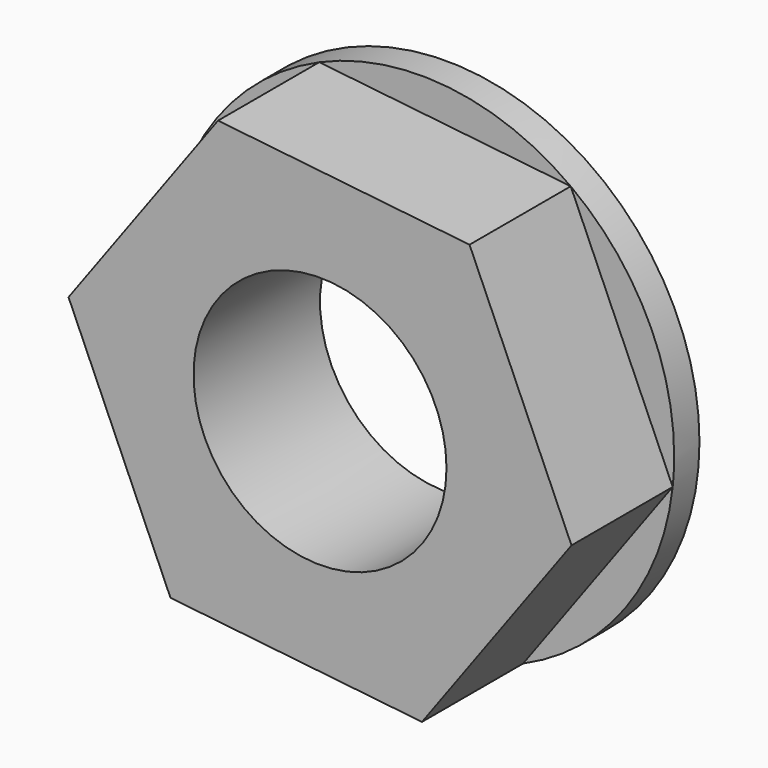
from build123d import *

# Parameters (mm, degrees)
F0_R     = 25.4
F0_R_2   = 12.7
F1_DEPTH = 3.175
F2_R     = 12.7
F3_DEPTH = 12.7


with BuildPart() as f1:
    # F0 (on Front) → F1 (new body)
    with BuildSketch(Plane.XZ):
        with Locations((-49.276002, 2.029355)):
            Circle(F0_R)
        with Locations((-49.276002, 2.029355)):
            Circle(F0_R_2, mode=Mode.SUBTRACT)
    extrude(amount=F1_DEPTH)

    # F2 (on face) → F3 (join)
    with BuildSketch(Plane.XZ.offset(3.175)):
        Polygon((-39.038599, -21.216195), (-24.026064, -0.727569), (-34.263467, 22.517981), (-59.513405, 25.274904), (-74.52594, 4.786278), (-64.288537, -18.459271), align=None)
        with Locations((-49.276002, 2.029355)):
            Circle(F2_R, mode=Mode.SUBTRACT)
    extrude(amount=F3_DEPTH)


solid = f1.part
